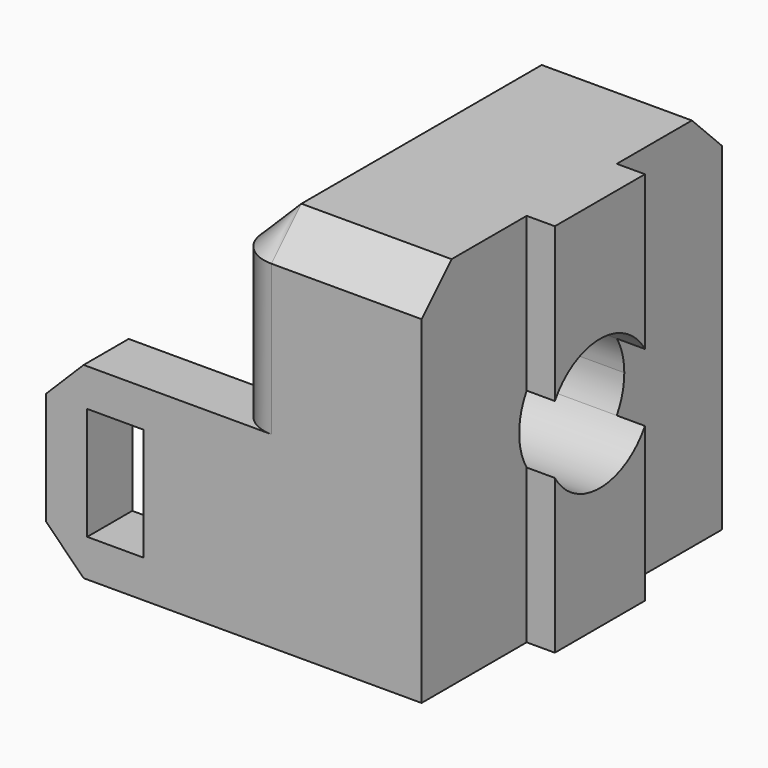
from build123d import *

# Parameters (mm, degrees)
F1_DEPTH = 20
F3_DEPTH = 15
F4_SIZE  = 3
F5_W     = 3
F5_H     = 10
F6_DEPTH = 10
F7_W     = 3
F7_H     = 6
F8_DEPTH = 25
F9_R     = 2
F10_SIZE = 2


with BuildPart() as f1:
    # F0 (on Top) → F1 (new body)
    with BuildSketch(Plane.XY):
        Polygon((5, 10), (-5, 10), (-5, -10), (5, -10), (5, -3), (6.5, -3), (6.5, 3), (5, 3), align=None)
    extrude(amount=F1_DEPTH)

    # F2 (on face) → F3 (cut)
    with BuildSketch(Plane.YZ.offset(6.5)):
        with BuildLine():
            ThreePointArc((3, 8.1972243623), (3.3726843908, 9.0645856533), (3.5, 10))
            ThreePointArc((3.5, 10), (3.3726843908, 10.9354143467), (3, 11.8027756377))
            Line((3, 11.8027756377), (3, 8.1972243623))
        make_face()
        with BuildLine():
            Line((3, 8.1972243623), (3, 11.8027756377))
            ThreePointArc((3, 11.8027756377), (0, 13.5), (-3, 11.8027756377))
            Line((-3, 11.8027756377), (-3, 8.1972243623))
            ThreePointArc((-3, 8.1972243623), (0, 6.5), (3, 8.1972243623))
        make_face()
        with BuildLine():
            Line((-3, 8.1972243623), (-3, 11.8027756377))
            ThreePointArc((-3, 11.8027756377), (-3.5, 10), (-3, 8.1972243623))
        make_face()
    extrude(amount=-F3_DEPTH, mode=Mode.SUBTRACT)

    # F4
    f4_edges = [f1.edges().sort_by_distance(p)[0] for p in [
        (-5, 3, 8.197224),
    ]]
    chamfer(f4_edges, length=F4_SIZE)

    # F5 (on face) → F6 (join)
    with BuildSketch(Plane(origin=(-5, 0, 0), x_dir=(0, -1, 0), z_dir=(-1, 0, 0))):
        with Locations((8.5, 5)):
            Rectangle(F5_W, F5_H)
        with Locations((-8.5, 5)):
            Rectangle(F5_W, F5_H)
        with Locations((8.5, 5)):
            Rectangle(F5_W, F5_H)
    extrude(amount=F6_DEPTH)

    # F7 (on face) → F8 (cut)
    with BuildSketch(Plane.XZ.offset(10)):
        with Locations((-11.3098823801, 5)):
            Rectangle(F7_W, F7_H)
    extrude(amount=-F8_DEPTH, mode=Mode.SUBTRACT)

    # F9
    f9_edges = [f1.edges().sort_by_distance(p)[0] for p in [
        (-5, -10, 15),
        (-5, 10, 15),
    ]]
    fillet(f9_edges, radius=F9_R)

    # F10
    f10_edges = [f1.edges().sort_by_distance(p)[0] for p in [
        (-15, -8.5, 10),
        (-15, 8.5, 10),
        (-15, 8.5, 0),
        (-15, -8.5, 0),
        (-5, 0, 0),
        (-5, 0, 20),
    ]]
    chamfer(f10_edges, length=F10_SIZE)


solid = f1.part
